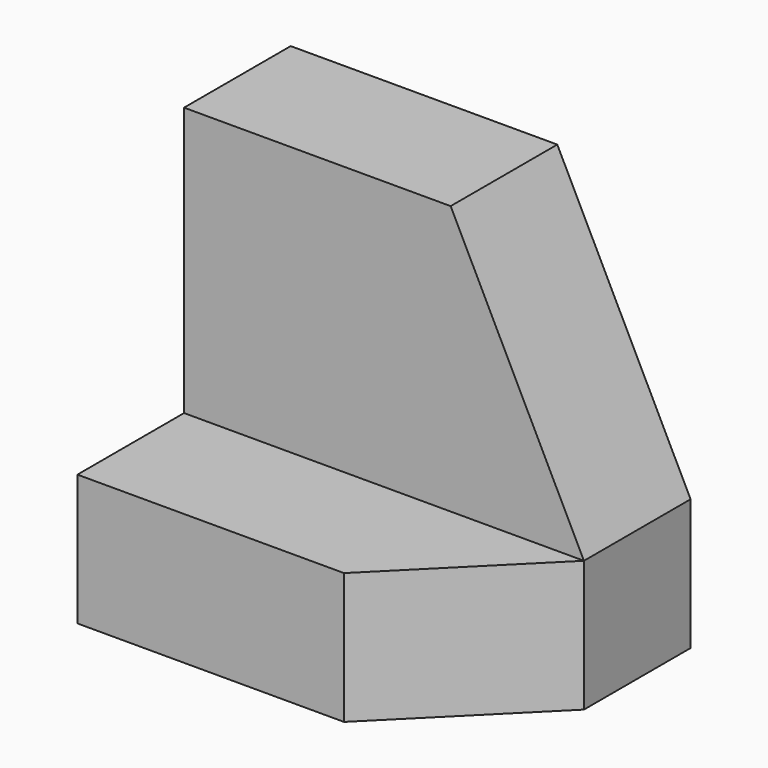
from build123d import *

# Parameters (mm, degrees)
F1_DEPTH = 38.1
F3_DEPTH = 25.4
F5_DEPTH = 25.4


with BuildPart() as f1:
    # F0 (on Right) → F1 (new body)
    with BuildSketch(Plane.YZ):
        Polygon((12.7, 12.482905), (0, 12.482905), (0, 0), (25.4, 0), (25.4, 38.1), (12.7, 38.1), align=None)
    extrude(amount=F1_DEPTH)

    # F2 (on face) → F3 (cut)
    with BuildSketch(Plane.XZ.offset(-12.7)):
        Polygon((38.1, 38.1), (25.4, 38.1), (38.1, 12.482905), align=None)
    extrude(amount=-F3_DEPTH, mode=Mode.SUBTRACT)

    # F4 (on face) → F5 (cut)
    with BuildSketch(Plane.XY.offset(12.482905)):
        Polygon((38.1, 0), (38.1, 12.7), (25.4, 0), align=None)
    extrude(amount=-F5_DEPTH, mode=Mode.SUBTRACT)


solid = f1.part
